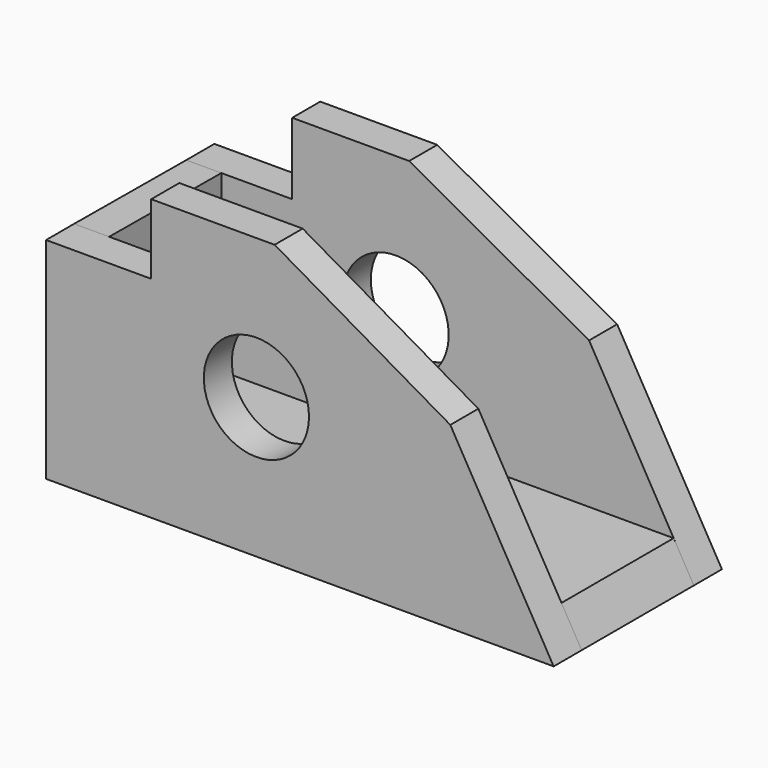
from build123d import *

# Parameters (mm, degrees)
F0_R     = 9.525
F1_DEPTH = 6.35
F3_DEPTH = 25.4
F4_R     = 9.5903
F5_DEPTH = 6.35
F7_DEPTH = 6.35


with BuildPart() as f1:
    # F0 (on Front) → F1 (new body)
    with BuildSketch(Plane.XZ):
        Polygon((-65.281793, 17.379178), (-65.281793, -20.720822), (26.666207, -20.720822), (7.945116, 11.705058), (-23.879793, 30.079178), (-46.231793, 30.079178), (-46.231793, 17.379178), align=None)
        with Locations((-27.181793, 4.679178)):
            Circle(F0_R, mode=Mode.SUBTRACT)
    extrude(amount=F1_DEPTH)

    # F2 (on face) → F3 (join)
    with BuildSketch(Plane(origin=(0, 0, 0), x_dir=(-1, 0, 0), z_dir=(0, 1, 0))):
        Polygon((-23.000032, -14.370822), (-26.666207, -20.720822), (65.281793, -20.720822), (65.281793, -14.370822), align=None)
    extrude(amount=F3_DEPTH)

    # F4 (on face) → F5 (join)
    with BuildSketch(Plane(origin=(0, 25.4, 0), x_dir=(-1, 0, 0), z_dir=(0, 1, 0))):
        Polygon((-7.683079, 12.184195), (-26.666207, -20.720822), (65.281793, -20.720822), (65.281793, 17.217938), (46.098478, 17.217938), (46.098478, 30.19969), (24.903774, 30.19969), align=None)
        with Locations((27.338307, 4.773198)):
            Circle(F4_R, mode=Mode.SUBTRACT)
    extrude(amount=F5_DEPTH)


with BuildPart() as f7:
    # F6 (on face) → F7 (new body)
    with BuildSketch(Plane(origin=(-65.281793, 0, 0), x_dir=(0, -1, 0), z_dir=(-1, 0, 0))):
        Polygon((0, 17.379178), (-25.4, 17.217938), (-25.4, -14.370822), (0, -14.370822), align=None)
    extrude(amount=-F7_DEPTH)


solid = Compound([f1.part, f7.part])
